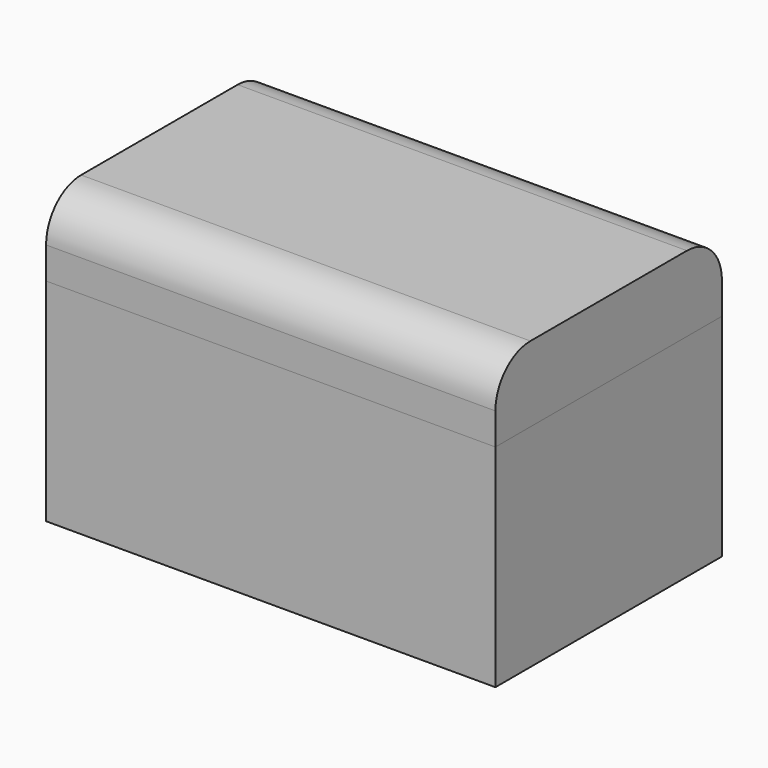
from build123d import *

# Parameters (mm, degrees)
F0_W     = 151.163936
F0_H     = 71.153932
F1_DEPTH = 95.25
F2_W     = 151.163936
F2_H     = 95.25
F3_DEPTH = 25.4
F4_R     = 14.717046
F5_T     = -6.35


with BuildPart() as f1:
    # F0 (on Front) → F1 (new body)
    with BuildSketch(Plane.XZ):
        Rectangle(F0_W, F0_H)
    extrude(amount=-F1_DEPTH)

    # F5
    f5_openings = [f1.faces().sort_by_distance(p)[0] for p in [
        (0, 47.625, 35.576966),
    ]]
    offset(amount=F5_T, openings=f5_openings)


with BuildPart() as f3:
    # F2 (on face) → F3 (new body)
    with BuildSketch(Plane.XY.offset(35.576966)):
        with Locations((0, 47.625)):
            Rectangle(F2_W, F2_H)
    extrude(amount=F3_DEPTH)

    # F4
    f4_edges = [f3.edges().sort_by_distance(p)[0] for p in [
        (0, 0, 60.976966),
        (0, 95.25, 60.976966),
    ]]
    fillet(f4_edges, radius=F4_R)


solid = Compound([f1.part, f3.part])
